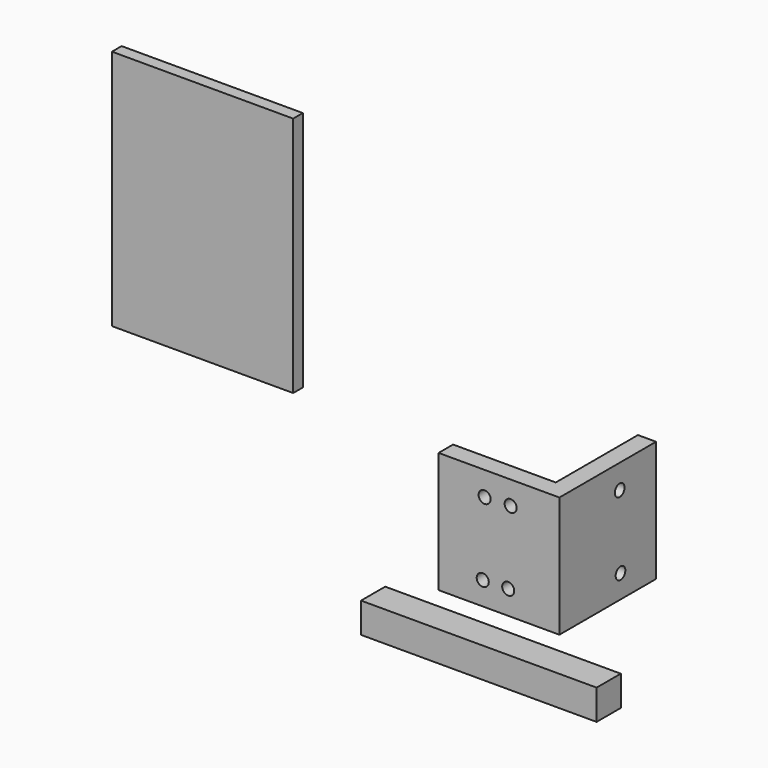
from build123d import *

# Parameters (mm, degrees)
F0_W           = 39
F0_H           = 5
F1_DEPTH       = 5
F2_W           = 30
F2_H           = 40
F3_DEPTH       = 2
F5_DEPTH       = 20
F8_D           = 2
F8_DEPTH       = 5
F8_TIP         = 0.600860619
F8_ON_F6_D     = 2
F8_ON_F6_DEPTH = 5
F8_ON_F6_TIP   = 0.600860619


with BuildPart() as f1:
    # F0 (on Front) → F1 (new body)
    with BuildSketch(Plane.XZ):
        with Locations((19.5, 2.5)):
            Rectangle(F0_W, F0_H)
    extrude(amount=F1_DEPTH)


with BuildPart() as f3:
    # F2 (on Front) → F3 (new body)
    with BuildSketch(Plane.XZ):
        with Locations((-28.6348711327, 49.5908727205)):
            Rectangle(F2_W, F2_H)
    extrude(amount=F3_DEPTH)


with BuildPart() as f5:
    # F4 (on Top) → F5 (new body)
    with BuildSketch(Plane.XY):
        Polygon((17, 14.0518931171), (0, 14.0518931171), (0, 11.0518931171), (20, 11.0518931171), (20, 31.0518931171), (17, 31.0518931171), align=None)
    extrude(amount=F5_DEPTH)

    # F8
    with Locations(Plane(origin=(0, 14.0518931171, 0), x_dir=(-1, 0, 0), z_dir=(0, 1, 0))):
        with Locations((-7.3076039553, 3.8561229594), (-11.5236490965, 3.9502684958), (-11.928435415, 16.150822863), (-7.6180133037, 16.0369295627)):
            Hole(F8_D / 2, depth=F8_DEPTH)
            with Locations((0, 0, -(F8_DEPTH + F8_TIP / 2))):  # 118° drill point
                Cone(0, F8_D / 2, F8_TIP, mode=Mode.SUBTRACT)

    # F8 on F6
    with Locations(Plane(origin=(17, 0, 0), x_dir=(0, -1, 0), z_dir=(-1, 0, 0))):
        with Locations((-23.5232319683, 15.9904174507), (-23.6952062696, 3.8376019802)):
            Hole(F8_ON_F6_D / 2, depth=F8_ON_F6_DEPTH)
            with Locations((0, 0, -(F8_ON_F6_DEPTH + F8_ON_F6_TIP / 2))):  # 118° drill point
                Cone(0, F8_ON_F6_D / 2, F8_ON_F6_TIP, mode=Mode.SUBTRACT)


solid = Compound([f1.part, f3.part, f5.part])
